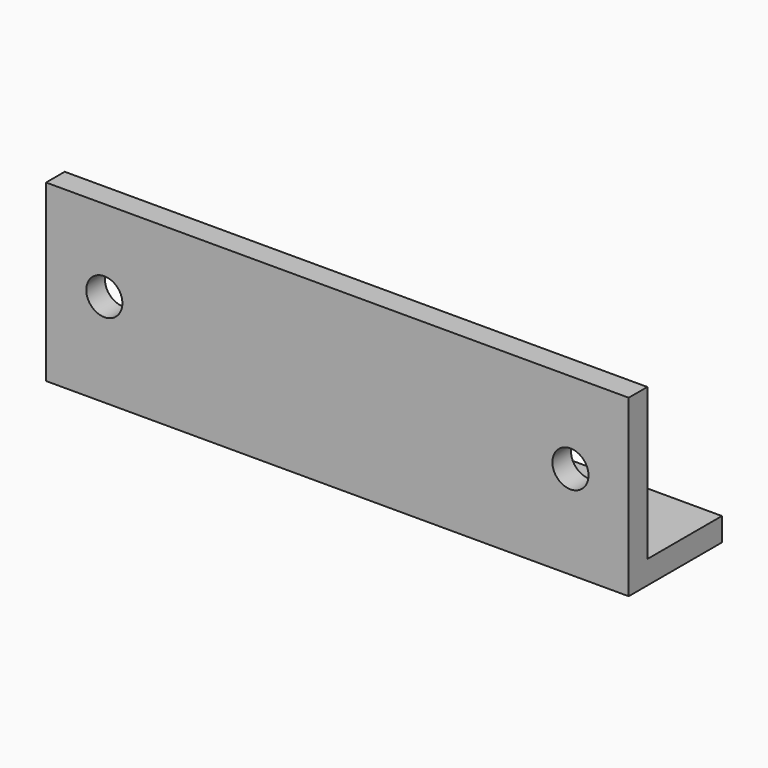
from build123d import *

# Parameters (mm, degrees)
PAD040_DEPTH    = 50
SKETCH240_R     = 1.55
POCKET200_DEPTH = 15.001
SKETCH241_R     = 1.55
POCKET201_DEPTH = 10.001


with BuildPart() as part:
    # Sketch239 → Pad040 (new body)
    with BuildSketch(Plane.YZ):
        Polygon((0, 0), (0, 15), (2, 15), (2, 2), (10, 2), (10, 0), align=None)
    extrude(amount=PAD040_DEPTH)

    # Sketch240 (on Face6 of Pad040) → Pocket200 (cut, through all)
    with BuildSketch(Plane.YX):
        with Locations((5, 38)):
            Circle(SKETCH240_R)
        with Locations((5, 12)):
            Circle(SKETCH240_R)
    extrude(amount=-POCKET200_DEPTH, mode=Mode.SUBTRACT)

    # Sketch241 (on Face1 of Pocket200) → Pocket201 (cut, through all)
    with BuildSketch(Plane(origin=(0, 0, 0), x_dir=(0, 0, -1), z_dir=(0, -1, 0))):
        with Locations((-8, 45)):
            Circle(SKETCH241_R)
        with Locations((-8, 5)):
            Circle(SKETCH241_R)
    extrude(amount=-POCKET201_DEPTH, mode=Mode.SUBTRACT)


with BuildPart() as part_1:
    # Body041 placement: moved
    add(part.part.moved(Location((0, -10, 18))))


solid = part_1.part
